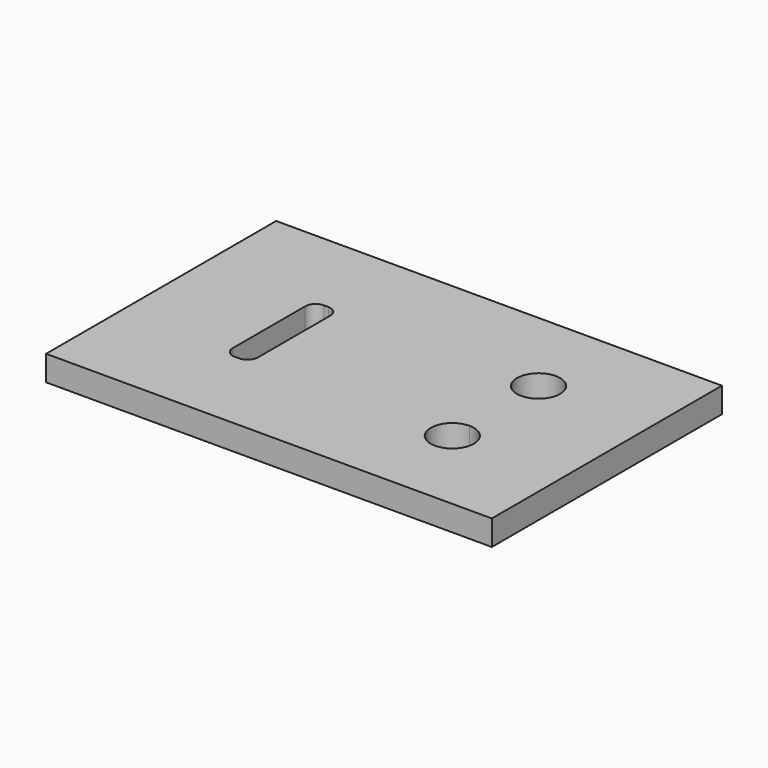
from build123d import *

# Parameters (mm, degrees)
F0_W     = 124
F0_H     = 80
F1_DEPTH = 7
F3_DEPTH = 25
F5_DEPTH = 25
F6_R     = 2.897056


with BuildPart() as f1:
    # F0 (on Top) → F1 (new body)
    with BuildSketch(Plane.XY):
        with Locations((-62, 40)):
            Rectangle(F0_W, F0_H)
    extrude(amount=F1_DEPTH)

    # F2 (on face) → F3 (cut)
    with BuildSketch(Plane.XY.offset(7)):
        with BuildLine():
            ThreePointArc((-25, 55), (-35.242641, 59.242641), (-31, 49))
            ThreePointArc((-31, 49), (-26.757359, 50.757359), (-25, 55))
        make_face()
        with BuildLine():
            ThreePointArc((-25, 25), (-26.757359, 29.242641), (-31, 31))
            ThreePointArc((-31, 31), (-35.242641, 20.757359), (-25, 25))
        make_face()
    extrude(amount=-F3_DEPTH, mode=Mode.SUBTRACT)

    # F4 (on face) → F5 (cut)
    with BuildSketch(Plane.XY.offset(7)):
        Polygon((-94, 55.5), (-94, 40), (-94, 24.5), (-87, 24.5), (-87, 55.5), align=None)
    extrude(amount=-F5_DEPTH, mode=Mode.SUBTRACT)

    # F6
    f6_edges = [f1.edges().sort_by_distance(p)[0] for p in [
        (-87, 55.5, 3.5),
        (-94, 55.5, 3.5),
        (-87, 24.5, 3.5),
        (-94, 24.5, 3.5),
    ]]
    fillet(f6_edges, radius=F6_R)


solid = f1.part
